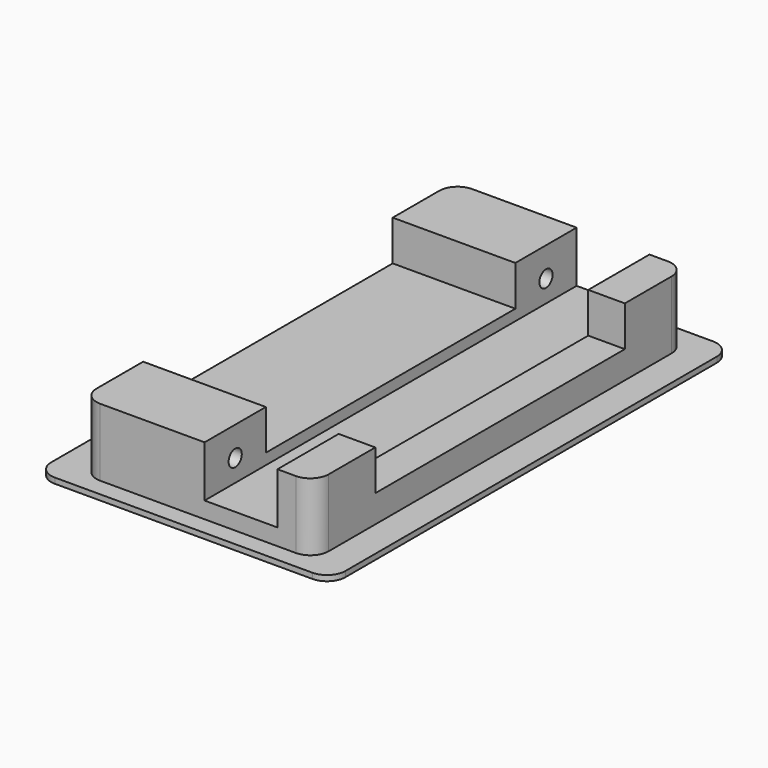
from build123d import *

# Parameters (mm, degrees)
F0_W      = 24
F0_H      = 127
F1_DEPTH  = 33.5
F2_W      = 6
F2_H      = 127
F3_DEPTH  = 19.9
F5_W      = 24
F5_H      = 127
F6_DEPTH  = 10
F7_W      = 85.2
F7_H      = 33.5
F7_H_2    = 10
F8_DEPTH  = 15
F4_R      = 2.25
F9_DEPTH  = 33.5
F11_ANGLE = 90
F12_W     = 63.4
F12_H     = 127
F13_DEPTH = 4
F14_W     = 80.3440480709
F14_H     = 136.8158757687
F15_DEPTH = 1.5
F16_R     = 5


with BuildPart() as f1:
    # F0 (on Top) → F1 (new body)
    with BuildSketch(Plane.XY):
        Rectangle(F0_W, F0_H)
    extrude(amount=F1_DEPTH)

    # F2 (on face) → F3 (join)
    with BuildSketch(Plane.XY.offset(33.5)):
        with Locations((9, 0)):
            Rectangle(F2_W, F2_H)
    extrude(amount=F3_DEPTH)

    # F5 (on face) → F6 (join)
    with BuildSketch(Plane.XY.offset(53.4)):
        Rectangle(F5_W, F5_H)
    extrude(amount=F6_DEPTH)

    # F7 (on face) → F8 (cut)
    with BuildSketch(Plane(origin=(-12, 0, 0), x_dir=(0, -1, 0), z_dir=(-1, 0, 0))):
        with Locations((0, 16.75)):
            Rectangle(F7_W, F7_H)
        with Locations((0, 58.4)):
            Rectangle(F7_W, F7_H_2)
    extrude(amount=-F8_DEPTH, mode=Mode.SUBTRACT)

    # F4 (on face) → F9 (cut, through all)
    with BuildSketch(Plane.XY.offset(33.5)):
        with Locations((0, 53.05)):
            Circle(F4_R)
        with Locations((0, -53.05)):
            Circle(F4_R)
    extrude(amount=-F9_DEPTH, mode=Mode.SUBTRACT)


with BuildPart() as f1_1:
    # F11: moved
    add(f1.part.rotate(Axis((0, -2.2393353283, 0), (0, 1, 0)), F11_ANGLE))

    # F12 (on face) → F13 (cut)
    with BuildSketch(Plane.XY.offset(12)):
        with Locations((31.7, 0)):
            Rectangle(F12_W, F12_H)
    extrude(amount=-F13_DEPTH, mode=Mode.SUBTRACT)

    # F14 (on face) → F15 (join)
    with BuildSketch(Plane(origin=(0, 0, -12), x_dir=(1, 0, 0), z_dir=(0, 0, -1))):
        with Locations((31.7, 0)):
            Rectangle(F14_W, F14_H)
    extrude(amount=-F15_DEPTH)

    # F16
    f16_edges = [f1_1.edges().sort_by_distance(p)[0] for p in [
        (63.4, 63.5, -1.25),
        (0, 63.5, -1.25),
        (-8.472024, 68.407938, -11.25),
        (71.872024, 68.407938, -11.25),
        (0, -63.5, -1.25),
        (63.4, -63.5, -1.25),
        (71.872024, -68.407938, -11.25),
        (-8.472024, -68.407938, -11.25),
    ]]
    fillet(f16_edges, radius=F16_R)


solid = f1_1.part
